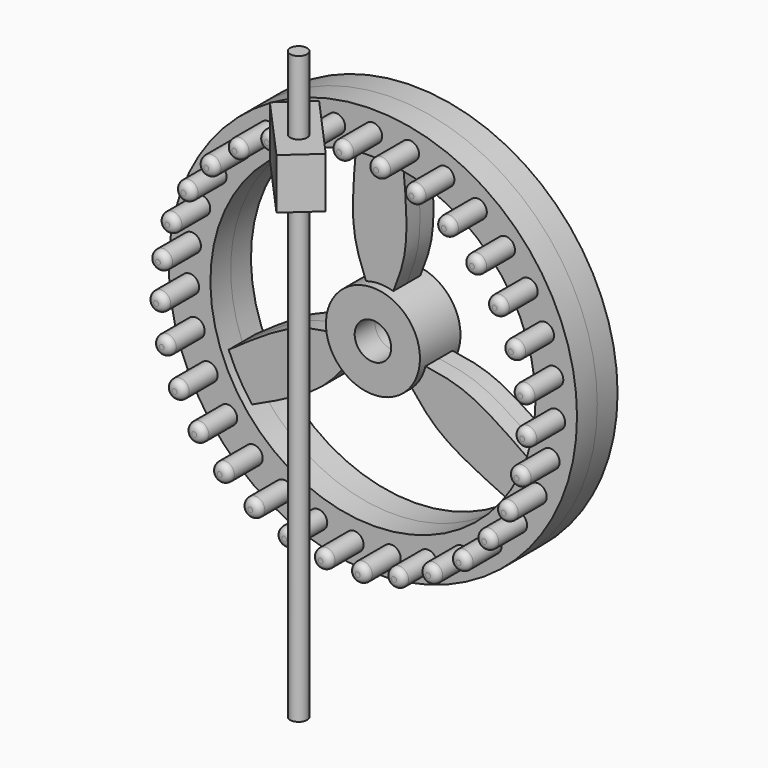
from build123d import *

# Parameters (mm, degrees)
F1_DEPTH  = 5
F3_COUNT  = 3
F3_ANGLE  = 240
F0_R      = 60.4084184516
F0_R_2    = 2.7222235221
F0_R_3    = 5.3973931926
F4_DEPTH  = 7.5
F5_DEPTH  = 20
F6_R      = 2
F7_COUNT  = 31
F7_ANGLE  = 348.3870967742
F8_W      = 2.5
F8_H      = 173.4999559352
F12_DEPTH = 15


with BuildPart() as f1:
    # F0 (on Front) → F1 (new body, symmetric)
    with BuildSketch(Plane.XZ):
        with BuildLine():
            ThreePointArc((-4.0422804186, 13.3202571767), (0, 13.9201035282), (4.0422804186, 13.3202571767))
            add(Edge.make_bspline(
                [(4.0422804186, 13.3202571767), (5.513046835, 17.0441564693), (8.9247420346, 25.6807239924), (7.6568691136, 39.6663274506), (6.9300414219, 47.6078417567)],
                knots=[0, 0, 0, 0, 0.430529457, 1, 1, 1, 1], degree=3))
            ThreePointArc((6.9300414219, 47.6078417567), (0, 48.1095839811), (-6.9300414219, 47.6078417567))
            add(Edge.make_bspline(
                [(-4.0422804186, 13.3202571767), (-5.513046835, 17.0441564693), (-8.9247420346, 25.6807239924), (-7.6568691136, 39.6663274506), (-6.9300414219, 47.6078417567)],
                knots=[0, 0, 0, 0, 0.430529457, 1, 1, 1, 1], degree=3))
        make_face()
    extrude(amount=F1_DEPTH, both=True)


with BuildPart() as f3_1:
    # F3: instance of F1
    add(f1.part.rotate(Axis((0, -0.2916678786, 0), (0, 1, 0)), 1 * F3_ANGLE / (F3_COUNT - 1)))


with BuildPart() as f3_2:
    # F3: instance of F1
    add(f1.part.rotate(Axis((0, -0.2916678786, 0), (0, 1, 0)), 2 * F3_ANGLE / (F3_COUNT - 1)))


with BuildPart() as f1_1:
    add(f1.part)

    add(f3_1.part)  # F4 merges F3_1

    add(f3_2.part)  # F4 merges F3_2
    # F0 (on Front) → F4 (join, symmetric)
    with BuildSketch(Plane.XZ):
        Circle(F0_R)
        with Locations((-35.3369584301, -41.1626296033)):
            Circle(F0_R_2, mode=Mode.SUBTRACT)
        with Locations((-42.8995852372, -33.2067507207)):
            Circle(F0_R_2, mode=Mode.SUBTRACT)
        with Locations((-26.327632393, -47.4333055935)):
            Circle(F0_R_2, mode=Mode.SUBTRACT)
        with Locations((-16.2404499923, -51.7620564796)):
            Circle(F0_R_2, mode=Mode.SUBTRACT)
        with Locations((-5.4883816608, -53.9716626916)):
            Circle(F0_R_2, mode=Mode.SUBTRACT)
        with Locations((-48.7058979841, -23.891383562)):
            Circle(F0_R_2, mode=Mode.SUBTRACT)
        with Locations((-52.518185545, -13.5979003531)):
            Circle(F0_R_2, mode=Mode.SUBTRACT)
        with Locations((-54.1803724189, -2.7477175061)):
            Circle(F0_R_2, mode=Mode.SUBTRACT)
        with Locations((5.4883816608, -53.9716626916)):
            Circle(F0_R_2, mode=Mode.SUBTRACT)
        with Locations((16.2404499923, -51.7620564796)):
            Circle(F0_R_2, mode=Mode.SUBTRACT)
        with Locations((26.327632393, -47.4333055935)):
            Circle(F0_R_2, mode=Mode.SUBTRACT)
        with Locations((35.3369584301, -41.1626296033)):
            Circle(F0_R_2, mode=Mode.SUBTRACT)
        with Locations((42.8995852372, -33.2067507207)):
            Circle(F0_R_2, mode=Mode.SUBTRACT)
        with Locations((48.7058979841, -23.891383562)):
            Circle(F0_R_2, mode=Mode.SUBTRACT)
        with Locations((52.518185545, -13.5979003531)):
            Circle(F0_R_2, mode=Mode.SUBTRACT)
        with Locations((54.1803724189, -2.7477175061)):
            Circle(F0_R_2, mode=Mode.SUBTRACT)
        with Locations((-53.6244084802, 8.2149572184)):
            Circle(F0_R_2, mode=Mode.SUBTRACT)
        with Locations((-50.8730549576, 18.8413106293)):
            Circle(F0_R_2, mode=Mode.SUBTRACT)
        with Locations((-46.0389525878, 28.6962985692)):
            Circle(F0_R_2, mode=Mode.SUBTRACT)
        with Locations((-39.3200100896, 37.376456674)):
            Circle(F0_R_2, mode=Mode.SUBTRACT)
        with Locations((-30.9913017585, 44.526418251)):
            Circle(F0_R_2, mode=Mode.SUBTRACT)
        with Locations((-21.3938058921, 49.8534630332)):
            Circle(F0_R_2, mode=Mode.SUBTRACT)
        with Locations((-10.9204450988, 53.1395011813)):
            Circle(F0_R_2, mode=Mode.SUBTRACT)
        with BuildLine():
            ThreePointArc((-6.9300414219, 47.6078417567), (0, 48.1095839811), (6.9300414219, 47.6078417567))
            ThreePointArc((6.9300414219, 47.6078417567), (36.3863537649, 31.4732478548), (48.1095839811, 0))
            ThreePointArc((48.1095839811, 0), (-31.4732478548, -36.3863537649), (-6.9300414219, 47.6078417567))
        make_face(mode=Mode.SUBTRACT)
        with Locations((53.6244084802, 8.2149572184)):
            Circle(F0_R_2, mode=Mode.SUBTRACT)
        with Locations((50.8730549576, 18.8413106293)):
            Circle(F0_R_2, mode=Mode.SUBTRACT)
        with Locations((46.0389525878, 28.6962985692)):
            Circle(F0_R_2, mode=Mode.SUBTRACT)
        with Locations((0, 54.2500019073)):
            Circle(F0_R_2, mode=Mode.SUBTRACT)
        with Locations((10.9204450988, 53.1395011813)):
            Circle(F0_R_2, mode=Mode.SUBTRACT)
        with Locations((21.3938058921, 49.8534630332)):
            Circle(F0_R_2, mode=Mode.SUBTRACT)
        with Locations((39.3200100896, 37.376456674)):
            Circle(F0_R_2, mode=Mode.SUBTRACT)
        with Locations((30.9913017585, 44.526418251)):
            Circle(F0_R_2, mode=Mode.SUBTRACT)
        with BuildLine():
            ThreePointArc((-4.0422804186, 13.3202571767), (-8.2915716339, -11.18119502), (13.9201035282, 0))
            ThreePointArc((13.9201035282, 0), (11.18119502, 8.2915716339), (4.0422804186, 13.3202571767))
            ThreePointArc((4.0422804186, 13.3202571767), (0, 13.9201035282), (-4.0422804186, 13.3202571767))
        make_face()
        Circle(F0_R_3, mode=Mode.SUBTRACT)
    extrude(amount=F4_DEPTH, both=True)


with BuildPart() as f5:
    # F0 (on Front) → F5 (new body)
    with BuildSketch(Plane.XZ):
        with Locations((0, 54.2500019073)):
            Circle(F0_R_2)
    extrude(amount=F5_DEPTH)

    # F6
    f6_edges = [f5.edges().sort_by_distance(p)[0] for p in [
        (-2.722224, -20, 54.250002),
    ]]
    fillet(f6_edges, radius=F6_R)


with BuildPart() as f7_1:
    # F7: instance of F5
    add(f5.part.rotate(Axis((0, -0.2916678786, 0), (0, 1, 0)), 1 * F7_ANGLE / (F7_COUNT - 1)))


with BuildPart() as f7_2:
    # F7: instance of F5
    add(f5.part.rotate(Axis((0, -0.2916678786, 0), (0, 1, 0)), 2 * F7_ANGLE / (F7_COUNT - 1)))


with BuildPart() as f7_3:
    # F7: instance of F5
    add(f5.part.rotate(Axis((0, -0.2916678786, 0), (0, 1, 0)), 3 * F7_ANGLE / (F7_COUNT - 1)))


with BuildPart() as f7_4:
    # F7: instance of F5
    add(f5.part.rotate(Axis((0, -0.2916678786, 0), (0, 1, 0)), 4 * F7_ANGLE / (F7_COUNT - 1)))


with BuildPart() as f7_5:
    # F7: instance of F5
    add(f5.part.rotate(Axis((0, -0.2916678786, 0), (0, 1, 0)), 5 * F7_ANGLE / (F7_COUNT - 1)))


with BuildPart() as f7_6:
    # F7: instance of F5
    add(f5.part.rotate(Axis((0, -0.2916678786, 0), (0, 1, 0)), 6 * F7_ANGLE / (F7_COUNT - 1)))


with BuildPart() as f7_7:
    # F7: instance of F5
    add(f5.part.rotate(Axis((0, -0.2916678786, 0), (0, 1, 0)), 7 * F7_ANGLE / (F7_COUNT - 1)))


with BuildPart() as f7_8:
    # F7: instance of F5
    add(f5.part.rotate(Axis((0, -0.2916678786, 0), (0, 1, 0)), 8 * F7_ANGLE / (F7_COUNT - 1)))


with BuildPart() as f7_9:
    # F7: instance of F5
    add(f5.part.rotate(Axis((0, -0.2916678786, 0), (0, 1, 0)), 9 * F7_ANGLE / (F7_COUNT - 1)))


with BuildPart() as f7_10:
    # F7: instance of F5
    add(f5.part.rotate(Axis((0, -0.2916678786, 0), (0, 1, 0)), 10 * F7_ANGLE / (F7_COUNT - 1)))


with BuildPart() as f7_11:
    # F7: instance of F5
    add(f5.part.rotate(Axis((0, -0.2916678786, 0), (0, 1, 0)), 11 * F7_ANGLE / (F7_COUNT - 1)))


with BuildPart() as f7_12:
    # F7: instance of F5
    add(f5.part.rotate(Axis((0, -0.2916678786, 0), (0, 1, 0)), 12 * F7_ANGLE / (F7_COUNT - 1)))


with BuildPart() as f7_13:
    # F7: instance of F5
    add(f5.part.rotate(Axis((0, -0.2916678786, 0), (0, 1, 0)), 13 * F7_ANGLE / (F7_COUNT - 1)))


with BuildPart() as f7_14:
    # F7: instance of F5
    add(f5.part.rotate(Axis((0, -0.2916678786, 0), (0, 1, 0)), 14 * F7_ANGLE / (F7_COUNT - 1)))


with BuildPart() as f7_15:
    # F7: instance of F5
    add(f5.part.rotate(Axis((0, -0.2916678786, 0), (0, 1, 0)), 15 * F7_ANGLE / (F7_COUNT - 1)))


with BuildPart() as f7_16:
    # F7: instance of F5
    add(f5.part.rotate(Axis((0, -0.2916678786, 0), (0, 1, 0)), 16 * F7_ANGLE / (F7_COUNT - 1)))


with BuildPart() as f7_17:
    # F7: instance of F5
    add(f5.part.rotate(Axis((0, -0.2916678786, 0), (0, 1, 0)), 17 * F7_ANGLE / (F7_COUNT - 1)))


with BuildPart() as f7_18:
    # F7: instance of F5
    add(f5.part.rotate(Axis((0, -0.2916678786, 0), (0, 1, 0)), 18 * F7_ANGLE / (F7_COUNT - 1)))


with BuildPart() as f7_19:
    # F7: instance of F5
    add(f5.part.rotate(Axis((0, -0.2916678786, 0), (0, 1, 0)), 19 * F7_ANGLE / (F7_COUNT - 1)))


with BuildPart() as f7_20:
    # F7: instance of F5
    add(f5.part.rotate(Axis((0, -0.2916678786, 0), (0, 1, 0)), 20 * F7_ANGLE / (F7_COUNT - 1)))


with BuildPart() as f7_21:
    # F7: instance of F5
    add(f5.part.rotate(Axis((0, -0.2916678786, 0), (0, 1, 0)), 21 * F7_ANGLE / (F7_COUNT - 1)))


with BuildPart() as f7_22:
    # F7: instance of F5
    add(f5.part.rotate(Axis((0, -0.2916678786, 0), (0, 1, 0)), 22 * F7_ANGLE / (F7_COUNT - 1)))


with BuildPart() as f7_23:
    # F7: instance of F5
    add(f5.part.rotate(Axis((0, -0.2916678786, 0), (0, 1, 0)), 23 * F7_ANGLE / (F7_COUNT - 1)))


with BuildPart() as f7_24:
    # F7: instance of F5
    add(f5.part.rotate(Axis((0, -0.2916678786, 0), (0, 1, 0)), 24 * F7_ANGLE / (F7_COUNT - 1)))


with BuildPart() as f7_25:
    # F7: instance of F5
    add(f5.part.rotate(Axis((0, -0.2916678786, 0), (0, 1, 0)), 25 * F7_ANGLE / (F7_COUNT - 1)))


with BuildPart() as f7_26:
    # F7: instance of F5
    add(f5.part.rotate(Axis((0, -0.2916678786, 0), (0, 1, 0)), 26 * F7_ANGLE / (F7_COUNT - 1)))


with BuildPart() as f7_27:
    # F7: instance of F5
    add(f5.part.rotate(Axis((0, -0.2916678786, 0), (0, 1, 0)), 27 * F7_ANGLE / (F7_COUNT - 1)))


with BuildPart() as f7_28:
    # F7: instance of F5
    add(f5.part.rotate(Axis((0, -0.2916678786, 0), (0, 1, 0)), 28 * F7_ANGLE / (F7_COUNT - 1)))


with BuildPart() as f7_29:
    # F7: instance of F5
    add(f5.part.rotate(Axis((0, -0.2916678786, 0), (0, 1, 0)), 29 * F7_ANGLE / (F7_COUNT - 1)))


with BuildPart() as f7_30:
    # F7: instance of F5
    add(f5.part.rotate(Axis((0, -0.2916678786, 0), (0, 1, 0)), 30 * F7_ANGLE / (F7_COUNT - 1)))


with BuildPart() as f9:
    # F8 (on Right) → F9 (revolve)
    with BuildSketch(Plane.YZ):
        with Locations((-36.25, 0)):
            Rectangle(F8_W, F8_H)
    revolve(axis=Axis((0, -35, 1.6249966472), (0, 0, -1)))

    # F11 (on offset) → F12 (join)
    with BuildSketch(Plane.XY.offset(50)):
        with BuildLine():
            Line((-15.25479462, -26.5573523939), (-4.2382045259, -38.8104964543))
            Line((-4.2382045259, -38.8104964543), (-1.8590830656, -36.6714694599))
            ThreePointArc((-1.8590830656, -36.6714694599), (-1.6714694599, -33.1409169344), (1.8590830656, -33.3285305401))
            Line((1.8590830656, -33.3285305401), (4.2382045259, -31.1895035457))
            Line((4.2382045259, -31.1895035457), (-6.7783855682, -18.9363594852))
            Line((-6.7783855682, -18.9363594852), (-15.25479462, -26.5573523939))
        make_face()
        with BuildLine():
            Line((-4.2382045259, -38.8104964543), (2.440735624, -46.239112308))
            Line((2.440735624, -46.239112308), (10.9171446757, -38.6181193994))
            Line((10.9171446757, -38.6181193994), (4.2382045259, -31.1895035457))
            Line((4.2382045259, -31.1895035457), (1.8590830656, -33.3285305401))
            ThreePointArc((1.8590830656, -33.3285305401), (2.3342780109, -34.1049323109), (2.5, -35))
            ThreePointArc((2.5, -35), (0.8950676891, -37.3342780109), (-1.8590830656, -36.6714694599))
            Line((-1.8590830656, -36.6714694599), (-4.2382045259, -38.8104964543))
        make_face()
    extrude(amount=F12_DEPTH)


solid = Compound([f1_1.part, f5.part, f7_1.part, f7_2.part, f7_3.part, f7_4.part, f7_5.part, f7_6.part, f7_7.part, f7_8.part, f7_9.part, f7_10.part, f7_11.part, f7_12.part, f7_13.part, f7_14.part, f7_15.part, f7_16.part, f7_17.part, f7_18.part, f7_19.part, f7_20.part, f7_21.part, f7_22.part, f7_23.part, f7_24.part, f7_25.part, f7_26.part, f7_27.part, f7_28.part, f7_29.part, f7_30.part, f9.part])
